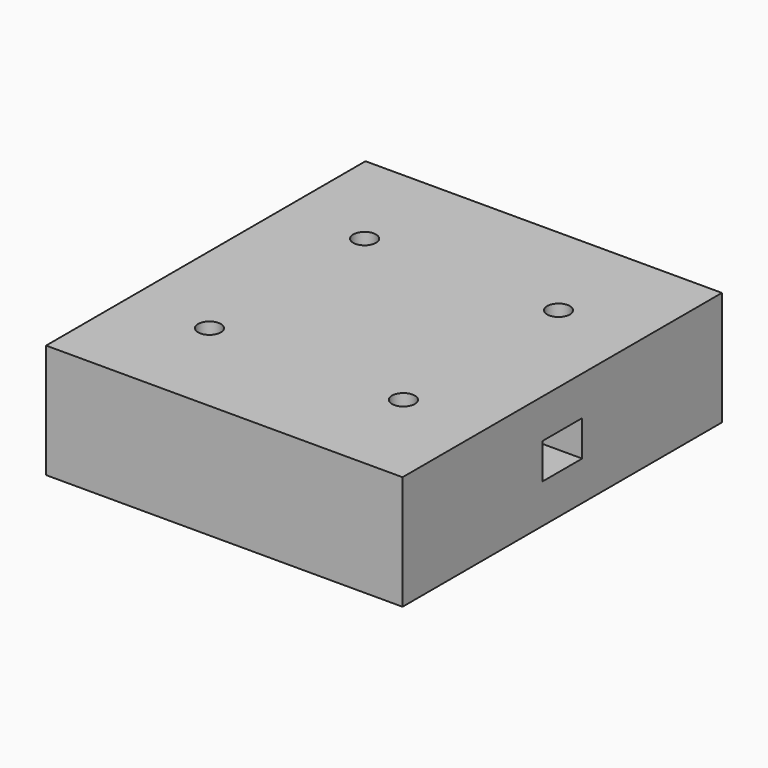
from build123d import *

# Parameters (mm, degrees)
F0_W     = 79.375
F0_H     = 25.4
F1_DEPTH = 88.9
F2_W     = 11.1125
F2_H     = 3.96875
F3_DEPTH = 19.05
F4_W     = 11.1125
F4_H     = 3.96875
F5_DEPTH = 19.05
F6_R     = 2.54
F7_DEPTH = 12.7


with BuildPart() as f1:
    # F0 (on Front) → F1 (new body)
    with BuildSketch(Plane.XZ):
        Rectangle(F0_W, F0_H)
    extrude(amount=F1_DEPTH)

    # F2 (on face) → F3 (cut)
    with BuildSketch(Plane.YZ.offset(39.6875)):
        with Locations((-44.45, -1.984375)):
            Rectangle(F2_W, F2_H)
        with Locations((-44.45, 1.984375)):
            Rectangle(F2_W, F2_H)
    extrude(amount=-F3_DEPTH, mode=Mode.SUBTRACT)

    # F4 (on face) → F5 (cut)
    with BuildSketch(Plane(origin=(-39.6875, 0, 0), x_dir=(0, -1, 0), z_dir=(-1, 0, 0))):
        with Locations((44.45, 1.984375)):
            Rectangle(F4_W, F4_H)
        with Locations((44.45, -1.984375)):
            Rectangle(F4_W, F4_H)
    extrude(amount=-F5_DEPTH, mode=Mode.SUBTRACT)

    # F6 (on face) → F7 (cut)
    with BuildSketch(Plane.XY.offset(12.7)):
        with Locations((-21.59, -22.86)):
            Circle(F6_R)
        with Locations((21.59, -22.86)):
            Circle(F6_R)
        with Locations((21.59, -66.04)):
            Circle(F6_R)
        with Locations((-21.59, -66.04)):
            Circle(F6_R)
    extrude(amount=-F7_DEPTH, mode=Mode.SUBTRACT)


solid = f1.part
